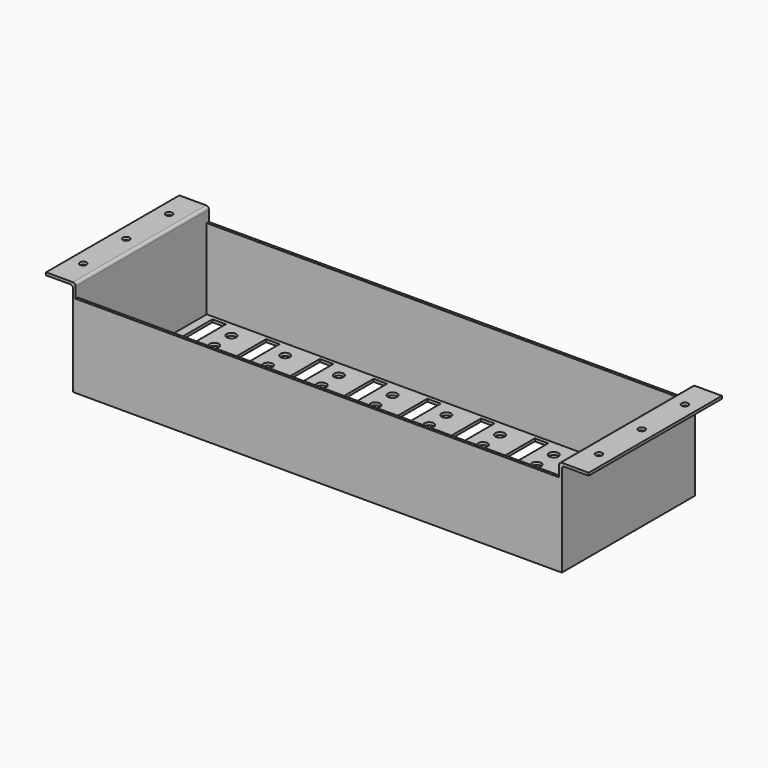
from build123d import *

# Parameters (mm, degrees)
F0_W     = 182
F0_H     = 62
F1_DEPTH = 36
F2_T     = -1
F3_W     = 10
F3_H     = 62
F3_R     = 1.25
F4_DEPTH = 1
F5_W     = 180
F5_H     = 8.6886398494
F6_DEPTH = 70
F7_R     = 1
F8_R     = 1.75
F8_W     = 5
F8_H     = 57.2
F9_DEPTH = 25


with BuildPart() as f1:
    # F0 (on Top) → F1 (new body)
    with BuildSketch(Plane.XY):
        Rectangle(F0_W, F0_H)
    extrude(amount=F1_DEPTH)

    # F2
    f2_openings = [f1.faces().sort_by_distance(p)[0] for p in [
        (0, 0, 36),
    ]]
    offset(amount=F2_T, openings=f2_openings)

    # F3 (on face) → F4 (join)
    with BuildSketch(Plane.XY.offset(36)):
        with Locations((-96, 0)):
            Rectangle(F3_W, F3_H)
        with Locations((-96, -20)):
            Circle(F3_R, mode=Mode.SUBTRACT)
        with Locations((-96, 0)):
            Circle(F3_R, mode=Mode.SUBTRACT)
        with Locations((-96, 20)):
            Circle(F3_R, mode=Mode.SUBTRACT)
        with Locations((96, 0)):
            Rectangle(F3_W, F3_H)
        with Locations((96, -20)):
            Circle(F3_R, mode=Mode.SUBTRACT)
        with Locations((96, 0)):
            Circle(F3_R, mode=Mode.SUBTRACT)
        with Locations((96, 20)):
            Circle(F3_R, mode=Mode.SUBTRACT)
    extrude(amount=-F4_DEPTH)

    # F5 (on face) → F6 (cut)
    with BuildSketch(Plane.XZ.offset(31)):
        with Locations((0, 35.2402012795)):
            Rectangle(F5_W, F5_H)
    extrude(amount=-F6_DEPTH, mode=Mode.SUBTRACT)

    # F7
    f7_edges = [f1.edges().sort_by_distance(p)[0] for p in [
        (-90, 0, 36),
        (-91, 0, 35),
        (90, 0, 36),
        (91, 0, 35),
    ]]
    fillet(f7_edges, radius=F7_R)

    # F8 (on face) → F9 (cut)
    with BuildSketch(Plane.XY.offset(1)):
        with Locations((-76, 24)):
            Circle(F8_R)
        with Locations((-76, 16)):
            Circle(F8_R)
        with Locations((-76, 4)):
            Circle(F8_R)
        with Locations((-76, -4)):
            Circle(F8_R)
        with Locations((-76, -16)):
            Circle(F8_R)
        with Locations((-76, -24)):
            Circle(F8_R)
        with Locations((-56, 24)):
            Circle(F8_R)
        with Locations((-56, 16)):
            Circle(F8_R)
        with Locations((-56, 4)):
            Circle(F8_R)
        with Locations((-56, -4)):
            Circle(F8_R)
        with Locations((-56, -16)):
            Circle(F8_R)
        with Locations((-56, -24)):
            Circle(F8_R)
        with Locations((-36, 24)):
            Circle(F8_R)
        with Locations((-36, 16)):
            Circle(F8_R)
        with Locations((-36, 4)):
            Circle(F8_R)
        with Locations((-36, -4)):
            Circle(F8_R)
        with Locations((-36, -16)):
            Circle(F8_R)
        with Locations((-36, -24)):
            Circle(F8_R)
        with Locations((-16, 24)):
            Circle(F8_R)
        with Locations((-16, 16)):
            Circle(F8_R)
        with Locations((-16, 4)):
            Circle(F8_R)
        with Locations((-16, -4)):
            Circle(F8_R)
        with Locations((-16, -16)):
            Circle(F8_R)
        with Locations((-16, -24)):
            Circle(F8_R)
        with Locations((4, 24)):
            Circle(F8_R)
        with Locations((4, 16)):
            Circle(F8_R)
        with Locations((4, 4)):
            Circle(F8_R)
        with Locations((4, -4)):
            Circle(F8_R)
        with Locations((4, -16)):
            Circle(F8_R)
        with Locations((4, -24)):
            Circle(F8_R)
        with Locations((24, 24)):
            Circle(F8_R)
        with Locations((24, 16)):
            Circle(F8_R)
        with Locations((24, 4)):
            Circle(F8_R)
        with Locations((24, -4)):
            Circle(F8_R)
        with Locations((24, -16)):
            Circle(F8_R)
        with Locations((24, -24)):
            Circle(F8_R)
        with Locations((44, 24)):
            Circle(F8_R)
        with Locations((44, 16)):
            Circle(F8_R)
        with Locations((44, 4)):
            Circle(F8_R)
        with Locations((44, -4)):
            Circle(F8_R)
        with Locations((44, -16)):
            Circle(F8_R)
        with Locations((44, -24)):
            Circle(F8_R)
        with Locations((64, 24)):
            Circle(F8_R)
        with Locations((64, 16)):
            Circle(F8_R)
        with Locations((64, 4)):
            Circle(F8_R)
        with Locations((64, -4)):
            Circle(F8_R)
        with Locations((64, -16)):
            Circle(F8_R)
        with Locations((64, -24)):
            Circle(F8_R)
        with Locations((84, 24)):
            Circle(F8_R)
        with Locations((84, 16)):
            Circle(F8_R)
        with Locations((84, 4)):
            Circle(F8_R)
        with Locations((84, -4)):
            Circle(F8_R)
        with Locations((84, -16)):
            Circle(F8_R)
        with Locations((84, -24)):
            Circle(F8_R)
        with Locations((-84.25, 0)):
            Rectangle(F8_W, F8_H)
        with Locations((-64.25, 0)):
            Rectangle(F8_W, F8_H)
        with Locations((-44.25, 0)):
            Rectangle(F8_W, F8_H)
        with Locations((-24.25, 0)):
            Rectangle(F8_W, F8_H)
        with Locations((-4.25, 0)):
            Rectangle(F8_W, F8_H)
        with Locations((15.75, 0)):
            Rectangle(F8_W, F8_H)
        with Locations((35.75, 0)):
            Rectangle(F8_W, F8_H)
        with Locations((55.75, 0)):
            Rectangle(F8_W, F8_H)
        with Locations((75.75, 0)):
            Rectangle(F8_W, F8_H)
    extrude(amount=-F9_DEPTH, mode=Mode.SUBTRACT)


solid = f1.part
